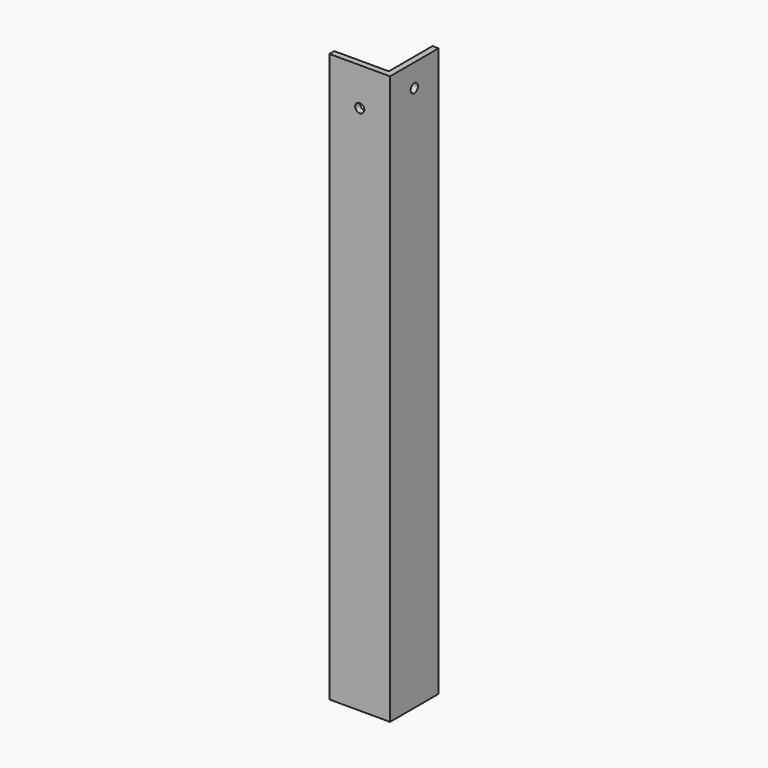
from build123d import *

# Parameters (mm, degrees)
CYLINDER003_R     = 6
CYLINDER003_DEPTH = 900
CYLINDER_R        = 6
CYLINDER_DEPTH    = 1300
BOX005_W          = 80
BOX005_H          = 80
BOX005_DEPTH      = 750
BOX004_W          = 80
BOX004_H          = 80
BOX004_DEPTH      = 750


with BuildPart() as cylinder003:
    # Cylinder003 → Cylinder003 (new body)
    with BuildSketch(Plane(origin=(1240, -10, 700), x_dir=(1, 0, 0), z_dir=(0, 1, 0))):
        Circle(CYLINDER003_R)
    extrude(amount=CYLINDER003_DEPTH)


with BuildPart() as cylinder:
    # Cylinder → Cylinder (new body)
    with BuildSketch(Plane(origin=(-10, 40, 720), x_dir=(0, 0, -1), z_dir=(1, 0, 0))):
        Circle(CYLINDER_R)
    extrude(amount=CYLINDER_DEPTH)


with BuildPart() as cube005:
    # Box005 → Box005 (new body)
    with BuildSketch(Plane(origin=(1192, 8, 0), x_dir=(1, 0, 0), z_dir=(0, 0, 1))):
        with Locations((40, 40)):
            Rectangle(BOX005_W, BOX005_H)
    extrude(amount=BOX005_DEPTH)


with BuildPart() as cut011:
    # Box004 → Box004 (new body)
    with BuildSketch(Plane(origin=(1200, 0, 0), x_dir=(1, 0, 0), z_dir=(0, 0, 1))):
        with Locations((40, 40)):
            Rectangle(BOX004_W, BOX004_H)
    extrude(amount=BOX004_DEPTH)

    # Cut002: cut Cube005
    add(cube005.part, mode=Mode.SUBTRACT)

    # Cut005: cut Cylinder
    add(cylinder.part, mode=Mode.SUBTRACT)

    # Cut011: cut Cylinder003
    add(cylinder003.part, mode=Mode.SUBTRACT)


solid = cut011.part
